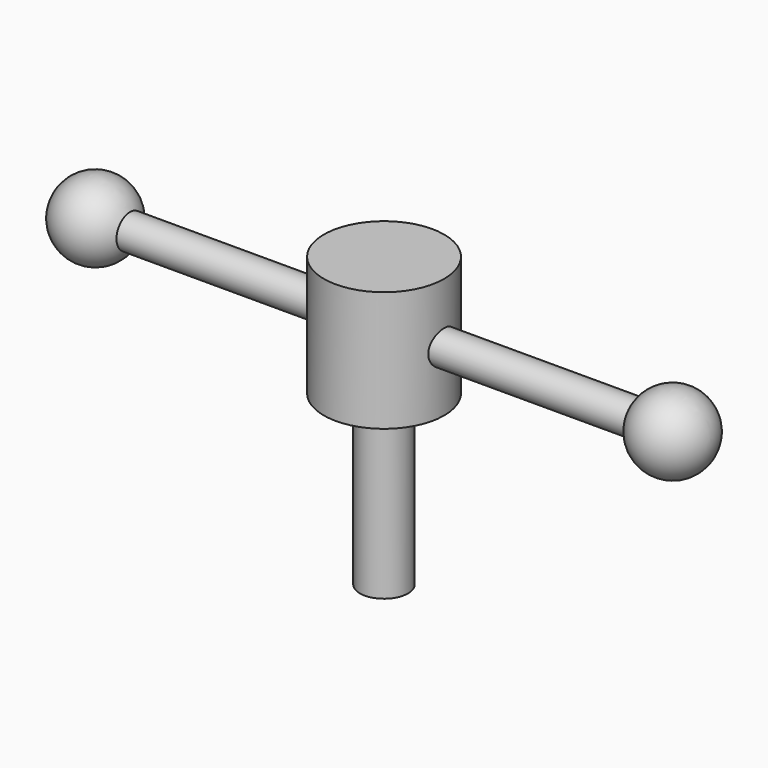
from build123d import *

# Parameters (mm, degrees)
F0_R     = 15.875
F1_DEPTH = 15.875
F2_R     = 6.35
F3_DEPTH = 44.45
F4_R     = 4.445
F5_DEPTH = 76.2


with BuildPart() as f1:
    # F0 (on Top) → F1 (new body, symmetric)
    with BuildSketch(Plane.XY):
        Circle(F0_R)
    extrude(amount=F1_DEPTH, both=True)

    # F2 (on face) → F3 (join)
    with BuildSketch(Plane(origin=(0, 0, -15.875), x_dir=(1, 0, 0), z_dir=(0, 0, -1))):
        Circle(F2_R)
    extrude(amount=F3_DEPTH)

    # F4 (on Right) → F5 (join, symmetric)
    with BuildSketch(Plane.YZ):
        Circle(F4_R)
    extrude(amount=F5_DEPTH, both=True)

    # F6 (on Front) → F7 (revolve)
    with BuildSketch(Plane.XZ):
        with BuildLine():
            Line((-76.2, 0), (-76.2, 4.445))
            Line((-76.2, 4.445), (-67.063941, 4.445))
            ThreePointArc((-67.063941, 4.445), (-78.480706, 9.900706), (-86.36, 0))
            Line((-86.36, 0), (-76.2, 0))
        make_face()
        with BuildLine():
            Line((67.063941, 4.445), (76.2, 4.445))
            Line((76.2, 4.445), (76.2, 0))
            Line((76.2, 0), (86.36, 0))
            ThreePointArc((86.36, 0), (78.480706, 9.900706), (67.063941, 4.445))
        make_face()
    revolve(axis=Axis((-6.765945, 0, 0), (-1, 0, 0)))


solid = f1.part
